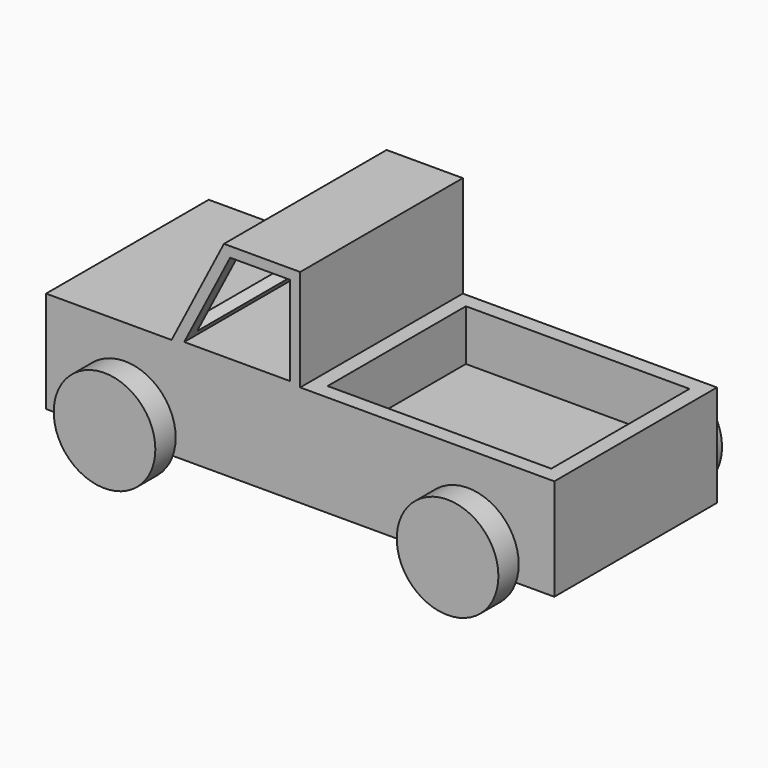
from build123d import *

# Parameters (mm, degrees)
F0_R       = 2.5
F1_DEPTH   = 20
F2_R       = 2.5
F3_DEPTH   = 40.001
F4_W       = 44
F4_H       = 34
F5_DEPTH   = 10
F6_R       = 1.25
F8_DEPTH   = 42.5
F7_R       = 1.25
F9_DEPTH   = 2.5
F10_R      = 1.25
F11_DEPTH  = 42.5
F11_FACE_R = 1.25
F12_DEPTH  = 2.5
F16_R      = 10
F17_DEPTH  = 5
F14_R      = 10
F18_DEPTH  = 5
F13_R      = 10
F19_DEPTH  = 5
F15_R      = 10
F20_DEPTH  = 5
F21_W      = 35
F21_H      = 17.294839
F22_DEPTH  = 2.8
F23_W      = 11.780776
F23_H      = 17.5466
F24_DEPTH  = 50.6


with BuildPart() as f1:
    # F0 (on Front) → F1 (new body, symmetric)
    with BuildSketch(Plane.XZ):
        Polygon((-25.30775, 10), (-50, 10), (-50, -10), (50, -10), (50, 10), (0, 10), align=None)
        with Locations((-35, -5)):
            Circle(F0_R, mode=Mode.SUBTRACT)
        with Locations((35, -5)):
            Circle(F0_R, mode=Mode.SUBTRACT)
        Polygon((-15, 30), (-25.30775, 10), (0, 10), (0, 30), align=None)
        with Locations((-35, -5)):
            Circle(F0_R)
        with Locations((35, -5)):
            Circle(F0_R)
    extrude(amount=F1_DEPTH, both=True)

    # F2 (on face) → F3 (cut, through all)
    with BuildSketch(Plane.XZ.offset(20)):
        with Locations((-32.5, -5)):
            Circle(F2_R)
        with Locations((35, -5)):
            Circle(F2_R)
    extrude(amount=-F3_DEPTH, mode=Mode.SUBTRACT)

    # F4 (on face) → F5 (cut)
    with BuildSketch(Plane.XY.offset(10)):
        with Locations((25, 0)):
            Rectangle(F4_W, F4_H)
    extrude(amount=-F5_DEPTH, mode=Mode.SUBTRACT)

    # F21 (on face) → F22 (cut)
    with BuildSketch(Plane(origin=(-24.068458, 0, 12.404583), x_dir=(0, -1, 0), z_dir=(-0.888889, 0, 0.458122))):
        with Locations((0, 8.647419)):
            Rectangle(F21_W, F21_H)
    extrude(amount=-F22_DEPTH, mode=Mode.SUBTRACT)

    # F23 (on face) → F24 (cut)
    with BuildSketch(Plane.XZ.offset(20)):
        Polygon((-13.780776, 10.4534), (-13.780776, 28), (-22.824074, 10.4534), align=None)
        with Locations((-7.890388, 19.2267)):
            Rectangle(F23_W, F23_H)
    extrude(amount=-F24_DEPTH, mode=Mode.SUBTRACT)


with BuildPart() as f8:
    # F6 (on face) → F8 (new body)
    with BuildSketch(Plane.XZ.offset(20)):
        with Locations((35, -5)):
            Circle(F6_R)
    extrude(amount=-F8_DEPTH)

    # F7 (on face) → F9 (join)
    with BuildSketch(Plane.XZ.offset(20)):
        with Locations((35, -5)):
            Circle(F7_R)
    extrude(amount=F9_DEPTH)

    # F16 (on face) → F17 (join)
    with BuildSketch(Plane(origin=(0, 22.5, 0), x_dir=(-1, 0, 0), z_dir=(0, 1, 0))):
        with Locations((-35, -5)):
            Circle(F16_R)
    extrude(amount=F17_DEPTH)

    # F14 (on face) → F18 (join)
    with BuildSketch(Plane.XZ.offset(22.5)):
        with Locations((35, -5)):
            Circle(F14_R)
    extrude(amount=F18_DEPTH)


with BuildPart() as f11:
    # F10 (on face) → F11 (new body)
    with BuildSketch(Plane.XZ.offset(20)):
        with Locations((-32.5, -5)):
            Circle(F10_R)
    extrude(amount=-F11_DEPTH)

    # F11_face (on face) → F12 (join)
    with BuildSketch(Plane(origin=(-32.5, -20, -5), x_dir=(1, 0, 0), z_dir=(0, -1, 0))):
        Circle(F11_FACE_R)
    extrude(amount=F12_DEPTH)

    # F13 (on face) → F19 (join)
    with BuildSketch(Plane.XZ.offset(22.5)):
        with Locations((-32.5, -5)):
            Circle(F13_R)
    extrude(amount=F19_DEPTH)

    # F15 (on face) → F20 (join)
    with BuildSketch(Plane(origin=(0, 22.5, 0), x_dir=(-1, 0, 0), z_dir=(0, 1, 0))):
        with Locations((32.5, -5)):
            Circle(F15_R)
    extrude(amount=F20_DEPTH)


solid = Compound([f1.part, f8.part, f11.part])
